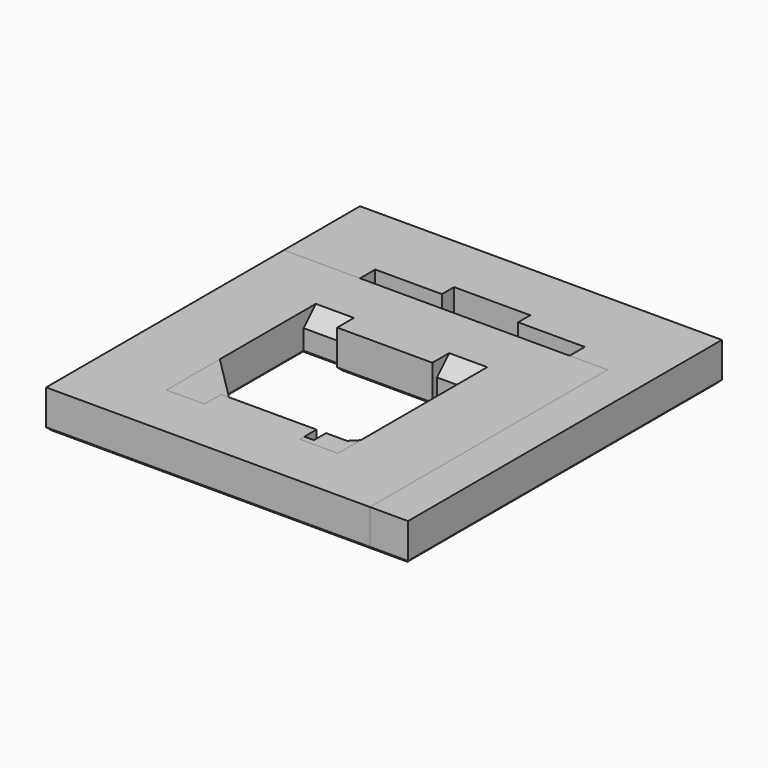
from build123d import *

# Parameters (mm, degrees)
SKETCH_W        = 47.5
SKETCH_H        = 51.5
SKETCH_W_2      = 27.5
SKETCH_H_2      = 31.5
PAD_DEPTH       = 5
CHAMFER_SIZE    = 6
SKETCH001_W     = 10
SKETCH001_H     = 2
POCKET_DEPTH    = 3.5
CHAMFER001_SIZE = 0.4
SKETCH002_W     = 42.5
SKETCH002_H     = 39
SKETCH002_W_2   = 22.5
SKETCH002_H_2   = 19
PAD001_DEPTH    = 5
SKETCH003_W     = 5
SKETCH003_H     = 0.75
POCKET001_DEPTH = 5.001
CHAMFER002_SIZE = 2
CHAMFER003_SIZE = 0.4


with BuildPart() as outlet:
    # Sketch → Pad (new body)
    with BuildSketch(Plane.XY):
        with Locations((13.75, 15.75)):
            Rectangle(SKETCH_W, SKETCH_H)
        with Locations((13.75, 15.75)):
            Rectangle(SKETCH_W_2, SKETCH_H_2, mode=Mode.SUBTRACT)
    extrude(amount=PAD_DEPTH)

    # Chamfer
    chamfer_edges = [outlet.edges().sort_by_distance(p)[0] for p in [
        (0, 0, 2.5),
        (27.5, 0, 2.5),
    ]]
    chamfer(chamfer_edges, length=CHAMFER_SIZE)

    # Sketch001 (on Face5 of Chamfer) → Pocket (cut)
    with BuildSketch(Plane.XY.offset(5)):
        with Locations((13.75, 32.5)):
            Rectangle(SKETCH001_W, SKETCH001_H)
        with Locations((13.75, -1)):
            Rectangle(SKETCH001_W, SKETCH001_H)
    extrude(amount=-POCKET_DEPTH, mode=Mode.SUBTRACT)

    # Chamfer001
    chamfer001_edges = [outlet.edges().sort_by_distance(p)[0] for p in [
        (13.75, 0, 0),
        (3, 3, 0),
        (24.5, 3, 0),
        (0, 18.75, 0),
        (27.5, 18.75, 0),
        (13.75, 31.5, 0),
        (13.75, 41.5, 0),
        (37.5, 15.75, 0),
        (13.75, -10, 0),
        (-10, 15.75, 0),
    ]]
    chamfer(chamfer001_edges, length=CHAMFER001_SIZE)


with BuildPart() as body001:
    # Sketch002 → Pad001 (new body)
    with BuildSketch(Plane.XY):
        with Locations((11.25, 9.5)):
            Rectangle(SKETCH002_W, SKETCH002_H)
        with Locations((11.25, 9.5)):
            Rectangle(SKETCH002_W_2, SKETCH002_H_2, mode=Mode.SUBTRACT)
    extrude(amount=PAD001_DEPTH)

    # Sketch003 (on Face10 of Pad001) → Pocket001 (cut, through all)
    with BuildSketch(Plane.XY.offset(5)):
        with Locations((2.5, 19.375)):
            Rectangle(SKETCH003_W, SKETCH003_H)
        with Locations((20, 19.375)):
            Rectangle(SKETCH003_W, SKETCH003_H)
        with Locations((2.5, -0.375)):
            Rectangle(SKETCH003_W, SKETCH003_H)
        with Locations((20, -0.375)):
            Rectangle(SKETCH003_W, SKETCH003_H)
    extrude(amount=-POCKET001_DEPTH, mode=Mode.SUBTRACT)

    # Chamfer002
    chamfer002_edges = [body001.edges().sort_by_distance(p)[0] for p in [
        (2.5, 19.75, 5),
        (2.5, -0.75, 5),
        (20, -0.75, 5),
        (20, 19.75, 5),
    ]]
    chamfer(chamfer002_edges, length=CHAMFER002_SIZE)

    # Chamfer003
    chamfer003_edges = [body001.edges().sort_by_distance(p)[0] for p in [
        (11.25, 29, 0),
        (-10, 9.5, 0),
        (32.5, 9.5, 0),
        (11.25, -10, 0),
        (0, 9.5, 0),
        (2.5, 19.75, 0),
        (5, 19.375, 0),
        (11.25, 19, 0),
        (17.5, 19.375, 0),
        (20, 19.75, 0),
        (22.5, 9.5, 0),
        (20, -0.75, 0),
        (17.5, -0.375, 0),
        (11.25, 0, 0),
        (5, -0.375, 0),
        (2.5, -0.75, 0),
    ]]
    chamfer(chamfer003_edges, length=CHAMFER003_SIZE)


solid = Compound([outlet.part, body001.part])
